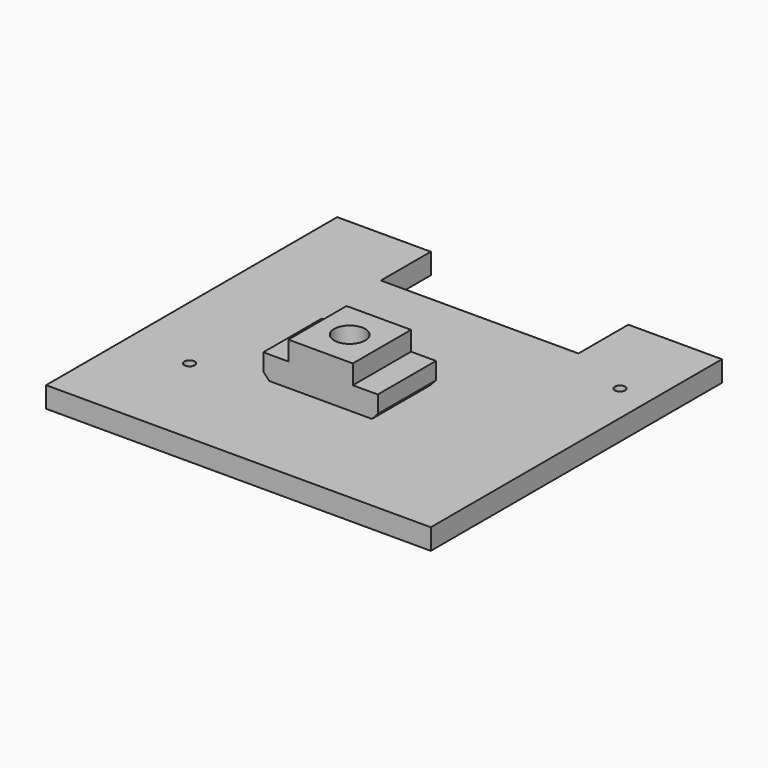
from build123d import *

# Parameters (mm, degrees)
SKETCH_R          = 0.5
PAD_DEPTH         = 2
PAD001_DEPTH      = 3.5
PAD001_DEPTH_BACK = 3.5
SKETCH002_R       = 1.5
POCKET_DEPTH      = 6.101


with BuildPart() as body:
    # Sketch → Pad (new body)
    with BuildSketch(Plane.XY):
        Polygon((-17.6, 20.5), (-8.6, 20.5), (-8.6, 14.5), (10.4, 14.5), (10.4, 20.5), (19.4, 20.5), (19.4, -14.5), (-17.6, -14.5), align=None)
        with Locations((16.4, 12)):
            Circle(SKETCH_R, mode=Mode.SUBTRACT)
        with Locations((-11.4, -5)):
            Circle(SKETCH_R, mode=Mode.SUBTRACT)
    extrude(amount=PAD_DEPTH)


with BuildPart() as tnut:
    # Sketch001 → Pad001 (new body, two sides)
    with BuildSketch(Plane.XZ) as pad001_sk:
        Polygon((-3.1, 0), (3.1, 0), (5.5, 2.61), (5.5, 4.25), (3.1, 4.25), (3.1, 6.1), (-3.1, 6.1), (-3.1, 4.25), (-5.5, 4.25), (-5.5, 2.61), align=None)
    extrude(amount=PAD001_DEPTH)
    extrude(pad001_sk.sketch, amount=-PAD001_DEPTH_BACK)

    # Sketch002 (on Face6 of Pad001) → Pocket (cut, through all)
    with BuildSketch(Plane(origin=(0, 0, 6.1), x_dir=(-1, 0, 0), z_dir=(0, 0, 1))):
        Circle(SKETCH002_R)
    extrude(amount=-POCKET_DEPTH, mode=Mode.SUBTRACT)


solid = Compound([body.part, tnut.part])
